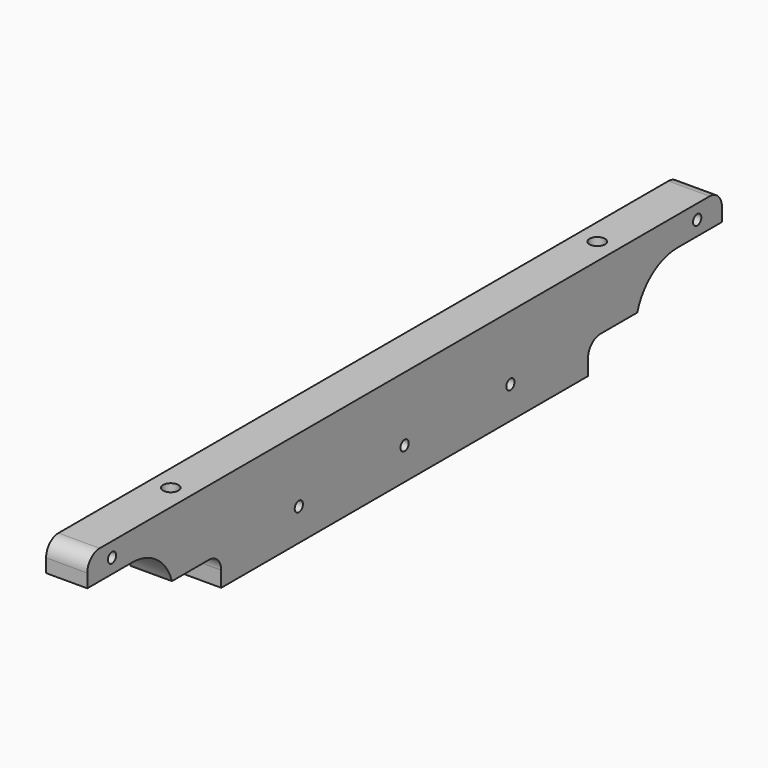
from build123d import *

# Parameters (mm, degrees)
PAD009_DEPTH            = 32
POCKET011_DEPTH         = 32
POCKET012_DEPTH         = 32
SKETCH023_R             = 4
POCKET013_DEPTH         = 10
SKETCH024_R             = 6
POCKET014_DEPTH         = 51
SKETCH025_R             = 12.75
POCKET015_DEPTH         = 1.8
BODY007_ROLL_ANGLE      = 90
BODY007_PLACEMENT_ANGLE = -90


with BuildPart() as part:
    # Sketch020 → Pad009 (new body)
    with BuildSketch(Plane.XY):
        with BuildLine():
            Line((-296, 75), (296, 75))
            ThreePointArc((308, 63), (304.485281, 71.485281), (296, 75))
            Line((308, 63), (308, 0))
            Line((308, 0), (-308, 0))
            Line((-308, 0), (-308, 63))
            ThreePointArc((-296, 75), (-304.485281, 71.485281), (-308, 63))
        make_face()
    extrude(amount=PAD009_DEPTH)

    # Sketch021 (on Face8 of Pad009) → Pocket011 (cut)
    with BuildSketch(Plane.XY.offset(32)):
        with BuildLine():
            Line((-308, 24), (-190, 24))
            ThreePointArc((-178, 12), (-181.514719, 20.485281), (-190, 24))
            Line((-178, 12), (-178, 0))
            Line((-178, 0), (-308, 0))
            Line((-308, 0), (-308, 24))
        make_face()
    pocket011 = extrude(amount=-POCKET011_DEPTH, mode=Mode.SUBTRACT)

    # Mirrored004: Pocket011 across Sketch021 V_Axis
    add(pocket011.mirror(Plane(origin=(0, 0, 32), x_dir=(0, 0, 1), z_dir=(1, 0, 0))), mode=Mode.SUBTRACT)

    # Sketch022 (on Face4 of Mirrored004) → Pocket012 (cut)
    with BuildSketch(Plane.XY.offset(32)):
        with BuildLine():
            ThreePointArc((-264.5, -28.5), (-224, 12), (-264.5, 52.5))
            Line((-345.5, 52.5), (-264.5, 52.5))
            Line((-345.5, -28.5), (-345.5, 52.5))
            Line((-264.5, -28.5), (-345.5, -28.5))
        make_face()
    pocket012 = extrude(amount=-POCKET012_DEPTH, mode=Mode.SUBTRACT)

    # Mirrored005: Pocket012 across Sketch022 V_Axis
    add(pocket012.mirror(Plane(origin=(0, 0, 32), x_dir=(0, 0, 1), z_dir=(1, 0, 0))), mode=Mode.SUBTRACT)

    # Sketch023 (on Face2 of Mirrored005) → Pocket013 (cut)
    with BuildSketch(Plane(origin=(0, 0, 0), x_dir=(1, 0, 0), z_dir=(0, 0, -1))):
        with Locations((-284, -63.75)):
            Circle(SKETCH023_R)
        with Locations((-102.666667, -25)):
            Circle(SKETCH023_R)
        with Locations((0, -25)):
            Circle(SKETCH023_R)
        with Locations((102.666667, -25)):
            Circle(SKETCH023_R)
        with Locations((284, -63.75)):
            Circle(SKETCH023_R)
    extrude(amount=-POCKET013_DEPTH, mode=Mode.SUBTRACT)

    # Sketch024 (on Face9 of Pocket013) → Pocket014 (cut)
    with BuildSketch(Plane.XZ.offset(-24)):
        with Locations((207, 16)):
            Circle(SKETCH024_R)
    pocket014 = extrude(amount=-POCKET014_DEPTH, mode=Mode.SUBTRACT)

    # Sketch025 (on Face9 of Pocket014) → Pocket015 (cut)
    with BuildSketch(Plane.XZ.offset(-24)):
        with Locations((207, 16)):
            Circle(SKETCH025_R)
    extrude(amount=-POCKET015_DEPTH, mode=Mode.SUBTRACT)

    # Mirrored006: Pocket014 across Sketch024 V_Axis
    add(pocket014.mirror(Plane(origin=(0, 24, 0), x_dir=(0, -1, 0), z_dir=(1, 0, 0))), mode=Mode.SUBTRACT)


with BuildPart() as part_1:
    # Body007 roll: moved
    add(part.part.rotate(Axis((0, 0, 0), (1, 0, 0)), BODY007_ROLL_ANGLE))


with BuildPart() as part_2:
    # Body007 placement: moved
    add(part_1.part.moved(Location((-210, 308, 18))).rotate(Axis((-210, 308, 18), (0, 0, 1)), BODY007_PLACEMENT_ANGLE))


solid = part_2.part
